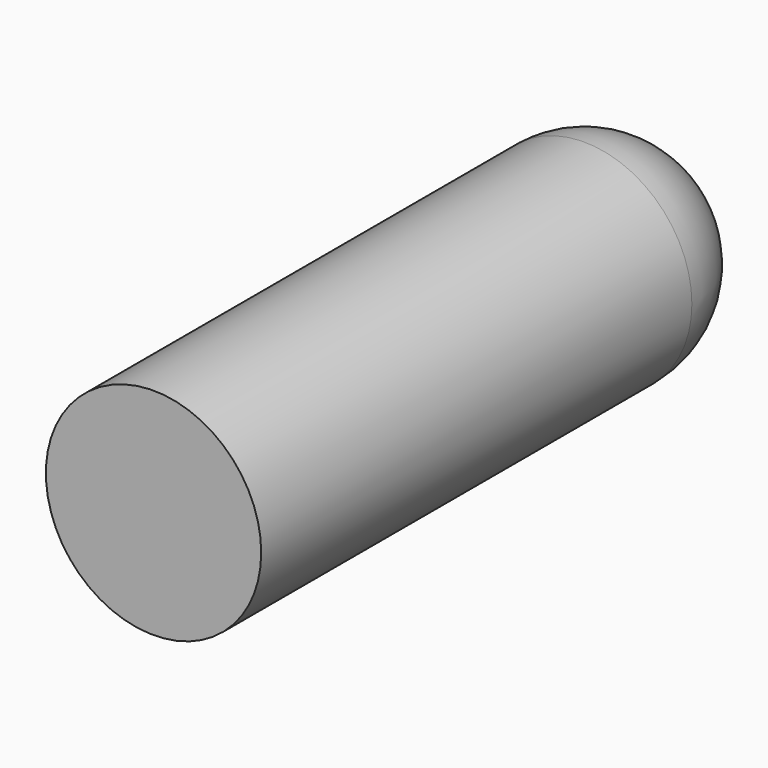
from build123d import *

# Parameters (mm, degrees)
F0_R     = 10
F1_DEPTH = 30
F2_R     = 10


with BuildPart() as f1:
    # F0 (on Front) → F1 (new body, symmetric)
    with BuildSketch(Plane.XZ):
        Circle(F0_R)
    extrude(amount=F1_DEPTH, both=True)

    # F2
    f2_edges = [f1.edges().sort_by_distance(p)[0] for p in [
        (-10, 30, 0),
    ]]
    fillet(f2_edges, radius=F2_R)


solid = f1.part
